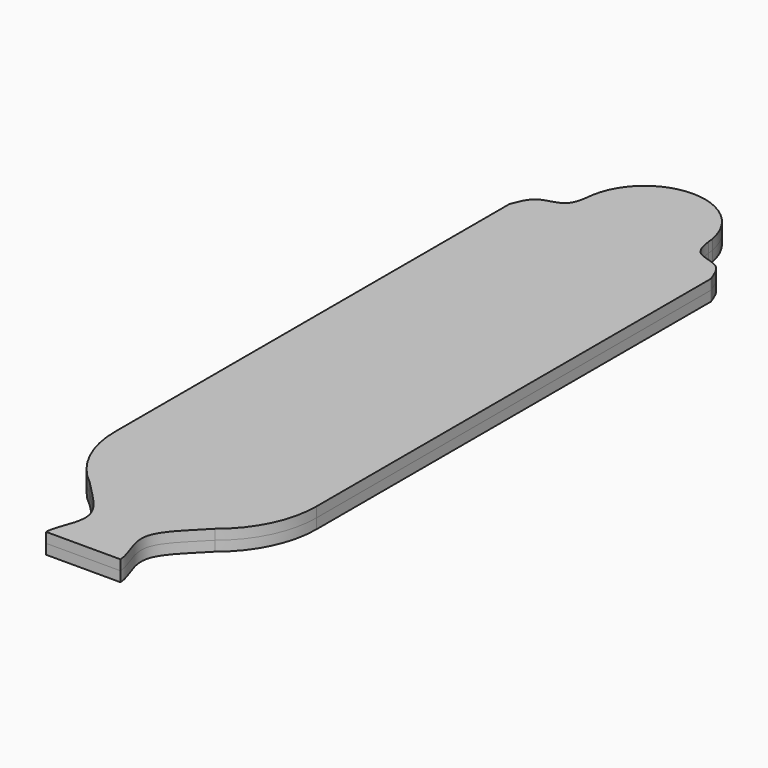
from build123d import *

# Parameters (mm, degrees)
F1_DEPTH = 2.54


with BuildPart() as f1:
    # F0 (on Top) → F1 (new body, symmetric)
    with BuildSketch(Plane.XY):
        with BuildLine():
            Line((-25.194235027, 124.7463666154), (-25.4, 124.0666854497))
            ThreePointArc((-25.4, 124.0666854497), (-17.9605122421, 106.1061732076), (0, 98.6666854497))
            Line((0, 98.6666854497), (0, 119.6934565528))
            ThreePointArc((0, 119.6934565528), (-11.178630816, 124.575087324), (-15.1958511108, 136.092641188))
            add(Edge.make_bspline(
                [(-25.194235027, 124.7463666154), (-24.5028815559, 126.4870131084), (-23.0882135498, 130.0477968311), (-16.3602558617, 130.2885305927), (-15.4622003113, 134.157385497), (-15.1958511108, 136.092641188)],
                knots=[0, 0, 0, 0, 0.3170422964, 0.6485651967, 0.9316231837, 0.9316231837, 0.9316231837, 0.9316231837], degree=3))
        make_face()
        with BuildLine():
            ThreePointArc((0, 98.6666854497), (-17.9605122421, 106.1061732076), (-25.4, 124.0666854497))
            Line((-25.4, 124.0666854497), (-25.4, 0))
            ThreePointArc((-25.4, 0), (-17.9605122421, 17.9605122421), (0, 25.4))
            Line((0, 25.4), (0, 98.6666854497))
        make_face()
        with BuildLine():
            Line((0, 119.6934565528), (0, 98.6666854497))
            ThreePointArc((0, 98.6666854497), (17.9605122421, 106.1061732076), (25.4, 124.0666854497))
            Line((25.4, 124.0666854497), (25.194235027, 124.7463666154))
            add(Edge.make_bspline(
                [(25.194235027, 124.7463666154), (24.5028815559, 126.4870131084), (23.0882135498, 130.0477968311), (16.3602558617, 130.2885305927), (15.4622003113, 134.1573854969), (15.1958511108, 136.092641188)],
                knots=[0, 0, 0, 0, 0.3170422964, 0.6485651967, 0.9316231837, 0.9316231837, 0.9316231837, 0.9316231837], degree=3))
            ThreePointArc((15.1958511108, 136.092641188), (15.2289587781, 135.5134690835), (15.24, 134.9334565528))
            ThreePointArc((15.24, 134.9334565528), (10.7763073453, 124.1571492075), (0, 119.6934565528))
        make_face()
        with BuildLine():
            ThreePointArc((25.4, 124.0666854497), (17.9605122421, 106.1061732076), (0, 98.6666854497))
            Line((0, 98.6666854497), (0, 25.4))
            ThreePointArc((0, 25.4), (17.9605122421, 17.9605122421), (25.4, 0))
            Line((25.4, 0), (25.4, 124.0666854497))
        make_face()
        with BuildLine():
            ThreePointArc((0, 25.4), (-17.9605122421, 17.9605122421), (-25.4, 0))
            ThreePointArc((-25.4, 0), (-22.8726734376, -11.0453976758), (-15.7936370223, -19.8927381124))
            ThreePointArc((-15.7936370223, -19.8927381124), (-8.3631468941, -23.9836980891), (0, -25.4))
            Line((0, -25.4), (0, 25.4))
        make_face()
        with BuildLine():
            ThreePointArc((25.4, 0), (17.9605122421, 17.9605122421), (0, 25.4))
            Line((0, 25.4), (0, -25.4))
            ThreePointArc((0, -25.4), (8.3631468941, -23.9836980891), (15.7936370223, -19.8927381124))
            ThreePointArc((15.7936370223, -19.8927381124), (22.8726734376, -11.0453976758), (25.4, 0))
        make_face()
        with BuildLine():
            Line((0, 150.1734565528), (0, 119.6934565528))
            ThreePointArc((0, 119.6934565528), (10.7763073453, 124.1571492075), (15.24, 134.9334565528))
            ThreePointArc((15.24, 134.9334565528), (15.2289587781, 135.5134690835), (15.1958511108, 136.092641188))
            add(Edge.make_bspline(
                [(15.1958511108, 136.092641188), (15.1315105474, 136.5601306387), (15.0757636417, 137.0365700135), (15.0201002889, 137.5130277017)],
                knots=[0.9316231837, 0.9316231837, 0.9316231837, 0.9316231837, 1, 1, 1, 1], degree=3))
            ThreePointArc((15.0201002889, 137.5130277017), (9.8220399024, 146.5861443181), (0, 150.1734565528))
        make_face()
        with BuildLine():
            ThreePointArc((-15.1958511108, 136.092641188), (-11.178630816, 124.575087324), (0, 119.6934565528))
            Line((0, 119.6934565528), (0, 150.1734565528))
            ThreePointArc((0, 150.1734565528), (-9.8220399024, 146.5861443181), (-15.0201002889, 137.5130277017))
            add(Edge.make_bspline(
                [(-15.1958511108, 136.092641188), (-15.1315105474, 136.5601306387), (-15.0757636417, 137.0365700135), (-15.0201002889, 137.5130277017)],
                knots=[0.9316231837, 0.9316231837, 0.9316231837, 0.9316231837, 1, 1, 1, 1], degree=3))
        make_face()
        with BuildLine():
            ThreePointArc((0, -25.4), (-8.3631468941, -23.9836980891), (-15.7936370223, -19.8927381124))
            add(Edge.make_bspline(
                [(-9.3395253643, -41.7014285922), (-9.449781817, -39.0560838147), (-3.4475168097, -30.3308044344), (-12.4864934959, -23.5902248246), (-15.7936370223, -19.8927381124)],
                knots=[0, 0, 0, 0, 0.4600508049, 1, 1, 1, 1], degree=3))
            Line((-9.3395253643, -41.7014285922), (0, -41.7014285922))
            Line((0, -41.7014285922), (0, -25.4))
        make_face()
        with BuildLine():
            ThreePointArc((-15.0201002889, 137.5130277017), (-15.124658813, 136.8048987216), (-15.1958511108, 136.092641188))
            add(Edge.make_bspline(
                [(-15.1958511108, 136.092641188), (-15.1315105474, 136.5601306387), (-15.0757636417, 137.0365700135), (-15.0201002889, 137.5130277017)],
                knots=[0.9316231837, 0.9316231837, 0.9316231837, 0.9316231837, 1, 1, 1, 1], degree=3))
        make_face()
        with BuildLine():
            ThreePointArc((15.7936370223, -19.8927381124), (8.3631468941, -23.9836980891), (0, -25.4))
            Line((0, -25.4), (0, -41.7014285922))
            Line((0, -41.7014285922), (9.3395253643, -41.7014285922))
            add(Edge.make_bspline(
                [(9.3395253643, -41.7014285922), (9.449781817, -39.0560838147), (3.4475168097, -30.3308044344), (12.4864934959, -23.5902248246), (15.7936370223, -19.8927381124)],
                knots=[0, 0, 0, 0, 0.4600508049, 1, 1, 1, 1], degree=3))
        make_face()
        with BuildLine():
            add(Edge.make_bspline(
                [(15.1958511108, 136.092641188), (15.1315105474, 136.5601306387), (15.0757636417, 137.0365700135), (15.0201002889, 137.5130277017)],
                knots=[0.9316231837, 0.9316231837, 0.9316231837, 0.9316231837, 1, 1, 1, 1], degree=3))
            ThreePointArc((15.1958511108, 136.092641188), (15.124658813, 136.8048987216), (15.0201002889, 137.5130277017))
        make_face()
    extrude(amount=F1_DEPTH, both=True)


solid = f1.part
